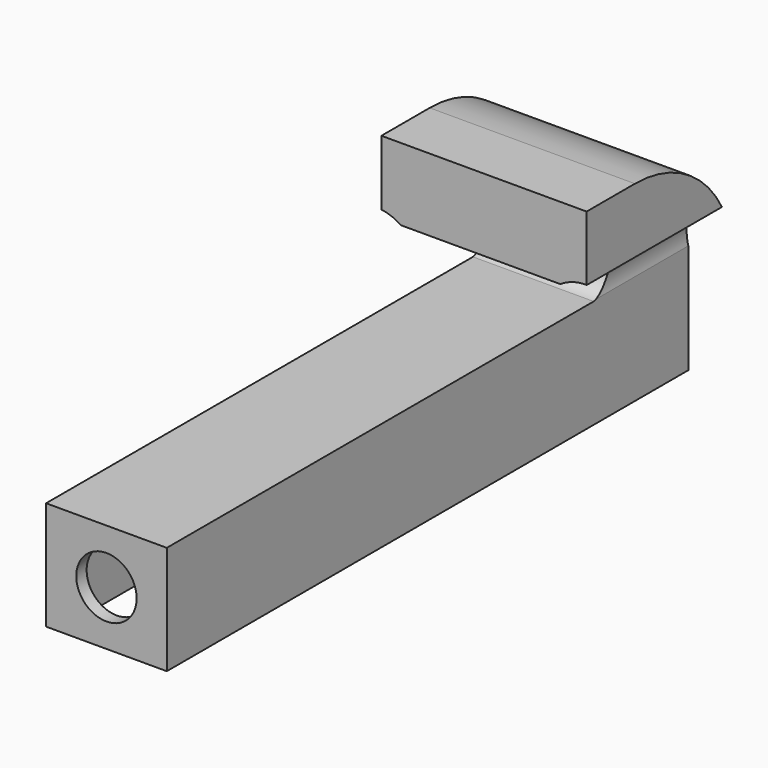
from build123d import *

# Parameters (mm, degrees)
F1_DEPTH = 42.5
F3_DEPTH = 174
F4_R     = 12.5
F5_DEPTH = 266
F6_W     = 40
F6_H     = 260
F7_DEPTH = 40


with BuildPart() as f1:
    # F0 (on Right) → F1 (new body, symmetric)
    with BuildSketch(Plane.YZ):
        with BuildLine():
            ThreePointArc((61.934647, 39.548864), (71.990491, 30.564401), (64.190836, 19.564131))
            Line((64.190836, 19.564131), (52.245142, 19.564131))
            Line((52.245142, 19.564131), (-156.829834, 19.564131))
            Line((-156.829834, 19.564131), (-156.829834, -25.435869))
            Line((-156.829834, -25.435869), (113.170166, -25.435869))
            Line((113.170166, -25.435869), (113.170166, 19.564131))
            ThreePointArc((113.170166, 19.564131), (97.724143, 54.982764), (61.934647, 69.548864))
            Line((61.934647, 69.548864), (36.934647, 69.548864))
            Line((36.934647, 69.548864), (36.934647, 39.548864))
            Line((36.934647, 39.548864), (61.934647, 39.548864))
        make_face()
    extrude(amount=F1_DEPTH, both=True)

    # F2 (on Front) → F3 (cut, symmetric)
    with BuildSketch(Plane.XZ):
        with BuildLine():
            Line((23.624079, 19.918991), (23.624079, -36.902788))
            Line((23.624079, -36.902788), (-26.375921, -36.902788))
            Line((-26.375921, -36.902788), (-26.375921, 19.918991))
            ThreePointArc((-26.375921, 19.918991), (-30.233422, 35.78282), (-44.975936, 42.797067))
            Line((-44.975936, 42.797067), (-64.052075, -61.106175))
            Line((-64.052075, -61.106175), (44.571461, -67.325629))
            Line((44.571461, -67.325629), (64.148389, 37.735406))
            Line((64.148389, 37.735406), (42.224093, 42.797067))
            ThreePointArc((42.224093, 42.797067), (27.481579, 35.78282), (23.624079, 19.918991))
        make_face()
    extrude(amount=F3_DEPTH, both=True, mode=Mode.SUBTRACT)

    # F4 (on Front) → F5 (cut, symmetric)
    with BuildSketch(Plane.XZ):
        with Locations((-1.375921, -2.935869)):
            Circle(F4_R)
    extrude(amount=F5_DEPTH, both=True, mode=Mode.SUBTRACT)

    # F6 (on face) → F7 (cut)
    with BuildSketch(Plane(origin=(0, 0, -25.435869), x_dir=(1, 0, 0), z_dir=(0, 0, -1))):
        with Locations((-1.719187, 21.451403)):
            Rectangle(F6_W, F6_H)
    extrude(amount=-F7_DEPTH, mode=Mode.SUBTRACT)


solid = f1.part
